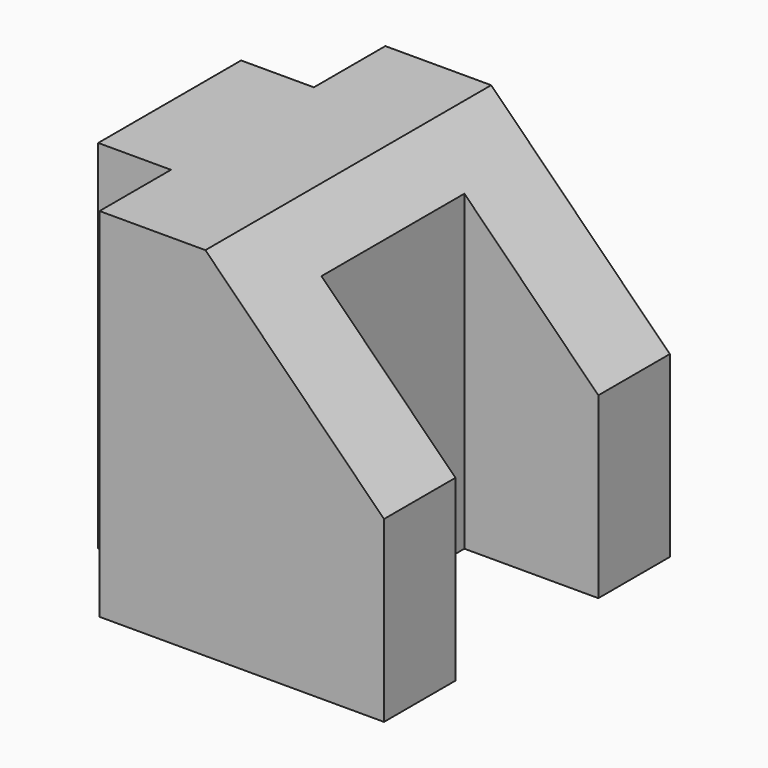
from build123d import *

# Parameters (mm, degrees)
F0_W     = 50.8
F0_H     = 50.8
F1_DEPTH = 50.8
F2_W     = 19.05
F2_H     = 25.4
F3_DEPTH = 50.801
F5_DEPTH = 50.801
F6_W     = 10.347801
F6_H     = 12.7
F7_DEPTH = 50.801


with BuildPart() as f1:
    # F0 (on Top) → F1 (new body)
    with BuildSketch(Plane.XY):
        with Locations((25.4, 25.4)):
            Rectangle(F0_W, F0_H)
    extrude(amount=F1_DEPTH)

    # F2 (on face) → F3 (cut, through all)
    with BuildSketch(Plane.XY.offset(50.8)):
        with Locations((41.275, 25.4)):
            Rectangle(F2_W, F2_H)
    extrude(amount=-F3_DEPTH, mode=Mode.SUBTRACT)

    # F4 (on face) → F5 (cut, through all)
    with BuildSketch(Plane.XZ):
        Polygon((25.4, 50.8), (50.8, 25.4), (50.8, 50.8), align=None)
    extrude(amount=-F5_DEPTH, mode=Mode.SUBTRACT)

    # F6 (on face) → F7 (cut, through all)
    with BuildSketch(Plane.XY.offset(50.8)):
        with Locations((5.1739, 6.35)):
            Rectangle(F6_W, F6_H)
        with Locations((5.1739, 44.45)):
            Rectangle(F6_W, F6_H)
    extrude(amount=-F7_DEPTH, mode=Mode.SUBTRACT)


solid = f1.part
